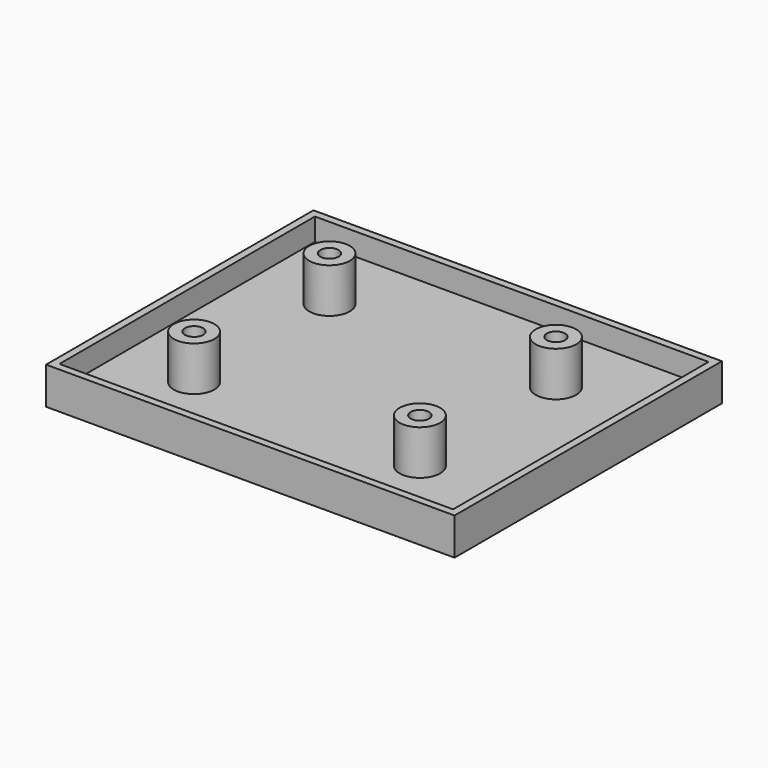
from build123d import *

# Parameters (mm, degrees)
F5_W      = 55
F5_H      = 45
F6_DEPTH  = 5
F4_W      = 53
F4_H      = 43
F7_DEPTH  = 10
F8_DEPTH  = 2
F9_R      = 2.7295
F10_DEPTH = 8
F11_D     = 2.459


with BuildPart() as f6:
    # F5 (on Top) → F6 (new body)
    with BuildSketch(Plane.XY):
        Rectangle(F5_W, F5_H)
    extrude(amount=F6_DEPTH)

    # F4 (on Top) → F7 (cut)
    with BuildSketch(Plane.XY):
        Rectangle(F4_W, F4_H)
    extrude(amount=F7_DEPTH, mode=Mode.SUBTRACT)

    # F4 (on Top) → F8 (join)
    with BuildSketch(Plane.XY):
        Rectangle(F4_W, F4_H)
    extrude(amount=F8_DEPTH)

    # F9 (on Top) → F10 (join)
    with BuildSketch(Plane.XY):
        with Locations((-16.46, 11.4)):
            Circle(F9_R)
        with Locations((14, -11.46)):
            Circle(F9_R)
        with Locations((14.0045639127, 11.4351585507)):
            Circle(F9_R)
        with Locations((-16.46, -11.3938525319)):
            Circle(F9_R)
    extrude(amount=F10_DEPTH)

    # F11 (through all)
    with Locations(Plane(origin=(0, 0, 0), x_dir=(1, 0, 0), z_dir=(0, 0, -1))):
        with Locations((-16.46, -11.4), (14, 11.46), (14.0045639127, -11.4351585507), (-16.46, 11.3938525319)):
            Hole(F11_D / 2)


solid = f6.part
